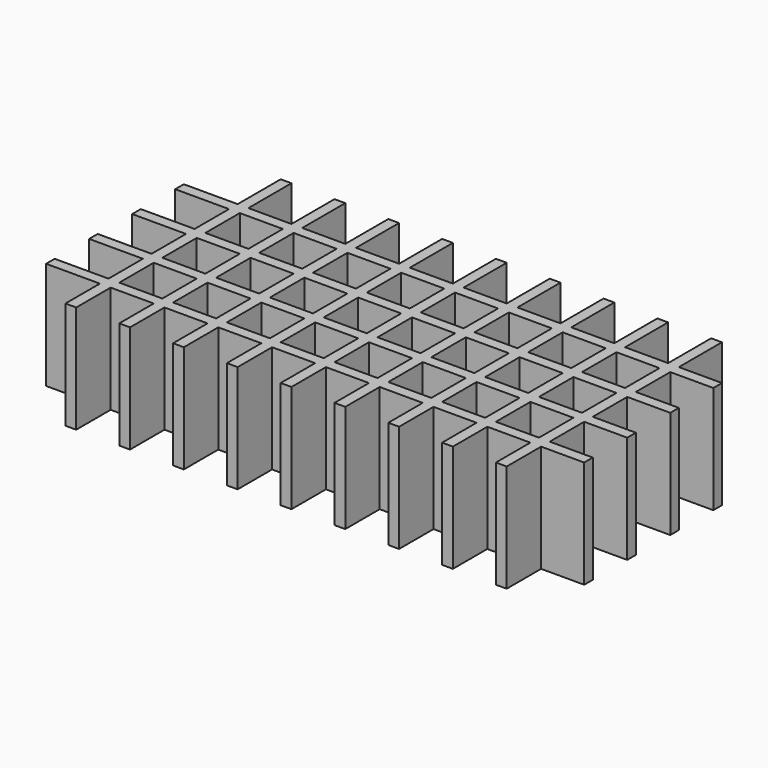
from build123d import *

# Parameters (mm, degrees)
F0_W     = 4
F0_H     = 4
F1_DEPTH = 10


with BuildPart() as f1:
    # F0 (on Top) → F1 (new body)
    with BuildSketch(Plane.XY):
        Polygon((0, 5), (0, 4), (1, 4), (5, 4), (5, 0), (6, 0), (6, 4), (10, 4), (10, 0), (11, 0), (11, 4), (15, 4), (15, 0), (16, 0), (16, 4), (20, 4), (20, 0), (21, 0), (21, 4), (25, 4), (25, 0), (26, 0), (26, 4), (30, 4), (30, 0), (31, 0), (31, 4), (35, 4), (35, 0), (36, 0), (36, 4), (40, 4), (40, 0), (41, 0), (41, 4), (45, 4), (45, 0), (46, 0), (46, 4), (50, 4), (50, 5), (46, 5), (46, 9), (50, 9), (50, 10), (46, 10), (46, 14), (50, 14), (50, 15), (46, 15), (46, 19), (50, 19), (50, 20), (46, 20), (46, 24), (46, 25), (45, 25), (45, 24), (45, 20), (41, 20), (41, 24), (41, 25), (40, 25), (40, 24), (40, 20), (36, 20), (36, 24), (36, 25), (35, 25), (35, 24), (35, 20), (31, 20), (31, 24), (31, 25), (30, 25), (30, 24), (30, 20), (26, 20), (26, 24), (26, 25), (25, 25), (25, 24), (25, 20), (21, 20), (21, 24), (21, 25), (20, 25), (20, 24), (20, 20), (16, 20), (16, 24), (16, 25), (15, 25), (15, 24), (15, 20), (11, 20), (11, 24), (11, 25), (10, 25), (10, 24), (10, 20), (6, 20), (6, 24), (6, 25), (5, 25), (5, 24), (5, 20), (1, 20), (0, 20), (0, 19), (1, 19), (5, 19), (5, 15), (1, 15), (0, 15), (0, 14), (1, 14), (5, 14), (5, 10), (1, 10), (0, 10), (0, 9), (1, 9), (5, 9), (5, 5), (1, 5), align=None)
        with Locations((8, 7)):
            Rectangle(F0_W, F0_H, mode=Mode.SUBTRACT)
        with Locations((8, 12)):
            Rectangle(F0_W, F0_H, mode=Mode.SUBTRACT)
        with Locations((13, 7)):
            Rectangle(F0_W, F0_H, mode=Mode.SUBTRACT)
        with Locations((18, 7)):
            Rectangle(F0_W, F0_H, mode=Mode.SUBTRACT)
        with Locations((23, 7)):
            Rectangle(F0_W, F0_H, mode=Mode.SUBTRACT)
        with Locations((13, 12)):
            Rectangle(F0_W, F0_H, mode=Mode.SUBTRACT)
        with Locations((18, 12)):
            Rectangle(F0_W, F0_H, mode=Mode.SUBTRACT)
        with Locations((23, 12)):
            Rectangle(F0_W, F0_H, mode=Mode.SUBTRACT)
        with Locations((28, 7)):
            Rectangle(F0_W, F0_H, mode=Mode.SUBTRACT)
        with Locations((33, 7)):
            Rectangle(F0_W, F0_H, mode=Mode.SUBTRACT)
        with Locations((28, 12)):
            Rectangle(F0_W, F0_H, mode=Mode.SUBTRACT)
        with Locations((33, 12)):
            Rectangle(F0_W, F0_H, mode=Mode.SUBTRACT)
        with Locations((38, 7)):
            Rectangle(F0_W, F0_H, mode=Mode.SUBTRACT)
        with Locations((43, 7)):
            Rectangle(F0_W, F0_H, mode=Mode.SUBTRACT)
        with Locations((38, 12)):
            Rectangle(F0_W, F0_H, mode=Mode.SUBTRACT)
        with Locations((43, 12)):
            Rectangle(F0_W, F0_H, mode=Mode.SUBTRACT)
        with Locations((8, 17)):
            Rectangle(F0_W, F0_H, mode=Mode.SUBTRACT)
        with Locations((13, 17)):
            Rectangle(F0_W, F0_H, mode=Mode.SUBTRACT)
        with Locations((18, 17)):
            Rectangle(F0_W, F0_H, mode=Mode.SUBTRACT)
        with Locations((23, 17)):
            Rectangle(F0_W, F0_H, mode=Mode.SUBTRACT)
        with Locations((28, 17)):
            Rectangle(F0_W, F0_H, mode=Mode.SUBTRACT)
        with Locations((33, 17)):
            Rectangle(F0_W, F0_H, mode=Mode.SUBTRACT)
        with Locations((38, 17)):
            Rectangle(F0_W, F0_H, mode=Mode.SUBTRACT)
        with Locations((43, 17)):
            Rectangle(F0_W, F0_H, mode=Mode.SUBTRACT)
    extrude(amount=F1_DEPTH)


solid = f1.part
